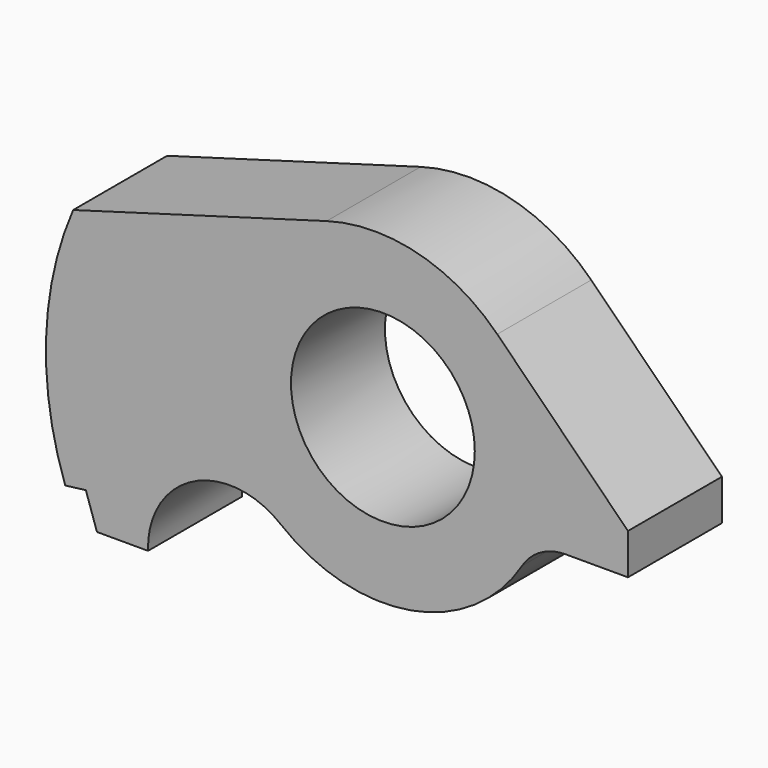
from build123d import *

# Parameters (mm, degrees)
F0_R     = 9
F1_DEPTH = 11.5


with BuildPart() as f1:
    # F0 (on Front) → F1 (new body)
    with BuildSketch(Plane.XZ):
        with BuildLine():
            Line((24, -6), (24, -2))
            Line((24, -2), (11.201727, 10.798273))
            ThreePointArc((11.201727, 10.798273), (3.437372, 15.235968), (-5.504924, 15.118907))
            Line((-5.504924, 15.118907), (-30.331502, 8))
            ThreePointArc((-30.331502, 8), (-32.982532, -3.926423), (-31.112698, -16))
            Line((-31.112698, -16), (-29.087008, -15.751276))
            Line((-29.087008, -15.751276), (-28, -19))
            Line((-28, -19), (-22.99561, -19))
            ThreePointArc((-22.99561, -19), (-18.583079, -11.582264), (-10, -12.489996))
            ThreePointArc((-10, -12.489996), (2.741192, -15.763434), (13.629367, -8.380952))
            ThreePointArc((13.629367, -8.380952), (15.448794, -6.635642), (17.888544, -6))
            Line((17.888544, -6), (24, -6))
        make_face()
        Circle(F0_R, mode=Mode.SUBTRACT)
    extrude(amount=F1_DEPTH)


solid = f1.part
